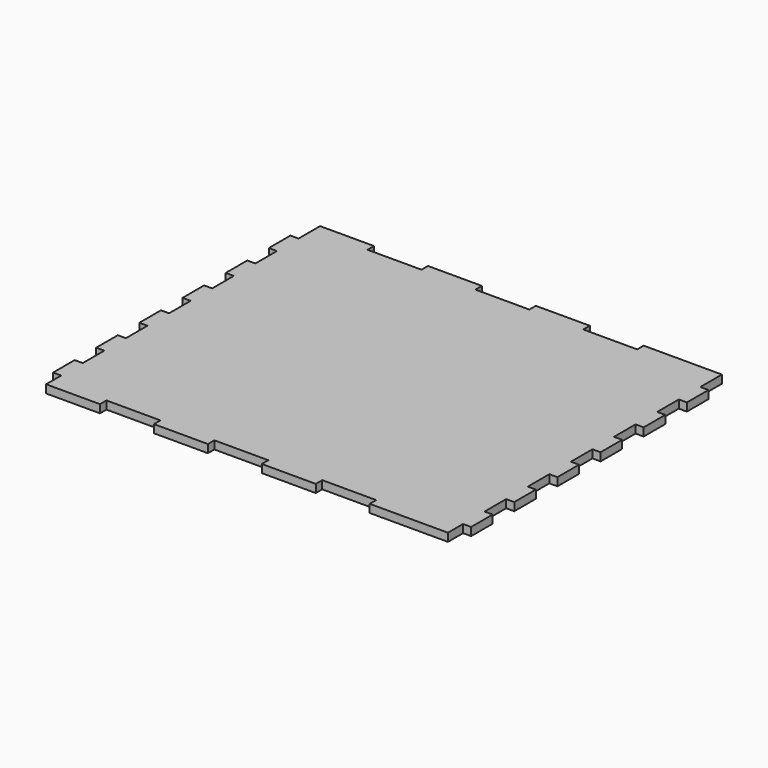
from build123d import *

# Parameters (mm, degrees)
SKETCH_W        = 155
SKETCH_H        = 127
PAD_DEPTH       = 3
SKETCH001_W     = 3
SKETCH001_H     = 10
POCKET_DEPTH    = 403.815171
SKETCH002_W     = 20
SKETCH002_H     = 3
POCKET001_DEPTH = 403.815171


with BuildPart() as part:
    # Sketch → Pad (new body)
    with BuildSketch(Plane.XY):
        Rectangle(SKETCH_W, SKETCH_H)
    extrude(amount=PAD_DEPTH)

    # Sketch001 (on Face6 of Pad) → Pocket (cut, through all)
    with BuildSketch(Plane.XY.offset(3)):
        with Locations((76, 58.5)):
            Rectangle(SKETCH001_W, SKETCH001_H)
        with Locations((76, 38.5)):
            Rectangle(SKETCH001_W, SKETCH001_H)
        with Locations((76, 18.5)):
            Rectangle(SKETCH001_W, SKETCH001_H)
        with Locations((76, -1.5)):
            Rectangle(SKETCH001_W, SKETCH001_H)
        with Locations((76, -21.5)):
            Rectangle(SKETCH001_W, SKETCH001_H)
        with Locations((76, -41.5)):
            Rectangle(SKETCH001_W, SKETCH001_H)
        with Locations((76, -61.5)):
            Rectangle(SKETCH001_W, SKETCH001_H)
    pocket = extrude(amount=-POCKET_DEPTH, mode=Mode.SUBTRACT)

    # Mirrored: Pocket across Sketch001 V_Axis
    add(pocket.mirror(Plane(origin=(0, 0, 3), x_dir=(0, 0, 1), z_dir=(1, 0, 0))), mode=Mode.SUBTRACT)

    # Sketch002 (on Face4 of Mirrored) → Pocket001 (cut, through all)
    with BuildSketch(Plane.XY.offset(3)):
        with Locations((-44.5, -62)):
            Rectangle(SKETCH002_W, SKETCH002_H)
        with Locations((-4.5, -62)):
            Rectangle(SKETCH002_W, SKETCH002_H)
        with Locations((35.5, -62)):
            Rectangle(SKETCH002_W, SKETCH002_H)
    pocket001 = extrude(amount=-POCKET001_DEPTH, mode=Mode.SUBTRACT)

    # Mirrored001: Pocket001 across Sketch002 H_Axis
    add(pocket001.mirror(Plane(origin=(0, 0, 3), x_dir=(0, 0, 1), z_dir=(0, 1, 0))), mode=Mode.SUBTRACT)


solid = part.part
